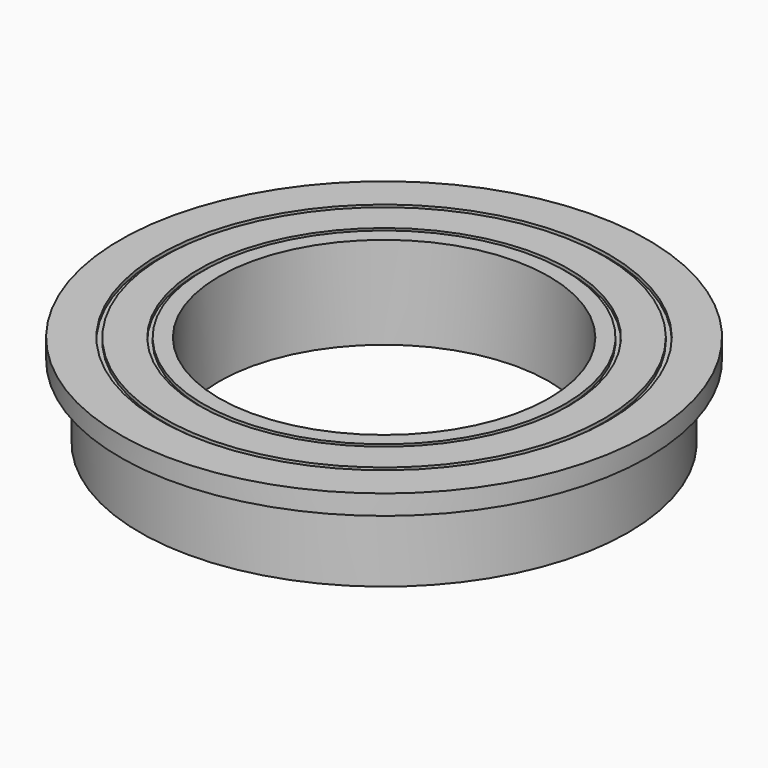
from build123d import *

# Parameters (mm, degrees)
F0_R     = 18.5
F0_R_2   = 12.5
F1_DEPTH = 7
F2_R     = 14.015719
F2_R_2   = 13.698062
F3_DEPTH = 0.254
F4_R     = 17.024352
F4_R_2   = 16.672097
F5_DEPTH = 0.254
F6_R     = 20
F6_R_2   = 18.5
F7_DEPTH = 1.5


with BuildPart() as f1:
    # F0 (on Top) → F1 (new body)
    with BuildSketch(Plane.XY):
        Circle(F0_R)
        Circle(F0_R_2, mode=Mode.SUBTRACT)
    extrude(amount=F1_DEPTH)

    # F2 (on face) → F3 (cut)
    with BuildSketch(Plane.XY.offset(7)):
        Circle(F2_R)
        Circle(F2_R_2, mode=Mode.SUBTRACT)
    extrude(amount=-F3_DEPTH, mode=Mode.SUBTRACT)

    # F4 (on face) → F5 (cut)
    with BuildSketch(Plane.XY.offset(7)):
        Circle(F4_R)
        Circle(F4_R_2, mode=Mode.SUBTRACT)
    extrude(amount=-F5_DEPTH, mode=Mode.SUBTRACT)

    # F6 (on face) → F7 (join)
    with BuildSketch(Plane.XY.offset(7)):
        Circle(F6_R)
        Circle(F6_R_2, mode=Mode.SUBTRACT)
    extrude(amount=-F7_DEPTH)


solid = f1.part
